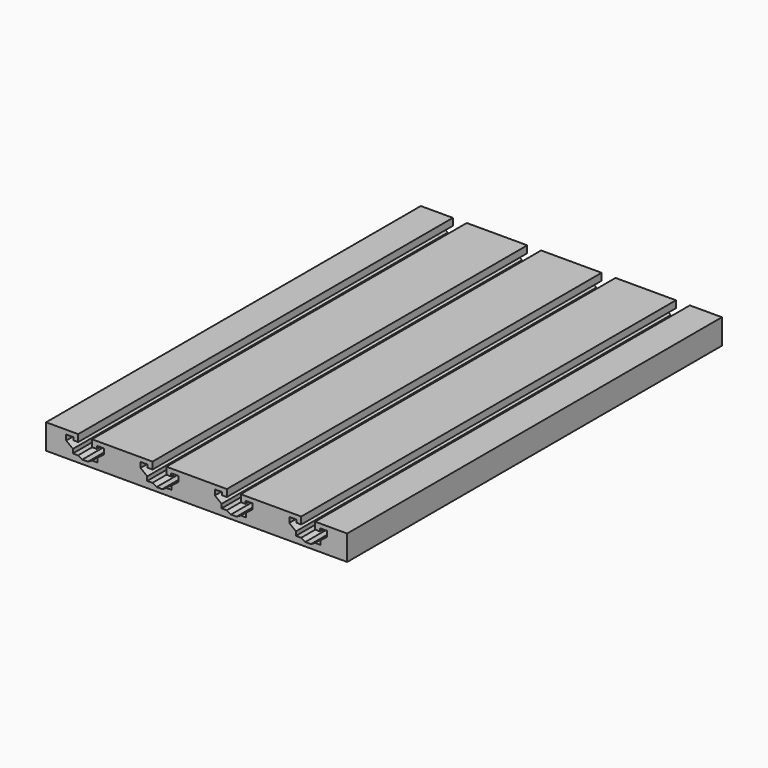
from build123d import *

# Parameters (mm, degrees)
SKETCH001_W         = 180
SKETCH001_H         = 15
PAD_DEPTH           = 280
POCKET_DEPTH        = 280.001
LINEARPATTERN_COUNT = 4
LINEARPATTERN_PITCH = 44.45


with BuildPart() as part:
    # Sketch001 → Pad (new body)
    with BuildSketch(Plane.XZ):
        with Locations((0, -7.5)):
            Rectangle(SKETCH001_W, SKETCH001_H)
    extrude(amount=-PAD_DEPTH)

    # Sketch → Pocket (cut, through all)
    with BuildSketch(Plane.XZ):
        Polygon((-70.825, 0), (-70.825, -4.2), (-73.675, -4.2), (-73.675, -2.5), (-77.975, -2.5), (-77.975, -5.7), (-73.975, -8.8), (-73.975, -11.2), (-70.875, -11.2), (-68.375, -12.6), (-64.975, -12.6), (-62.475, -11.2), (-59.375, -11.2), (-59.375, -8.8), (-55.375, -5.7), (-55.375, -2.5), (-59.675, -2.5), (-59.675, -4.2), (-62.525, -4.2), (-62.525, 0), align=None)
    pocket = extrude(amount=-POCKET_DEPTH, mode=Mode.SUBTRACT)

    # LinearPattern: Pocket ×4
    with Locations(*[(i * LINEARPATTERN_PITCH, 0, 0) for i in range(1, LINEARPATTERN_COUNT)]):
        add(pocket, mode=Mode.SUBTRACT)


solid = part.part
